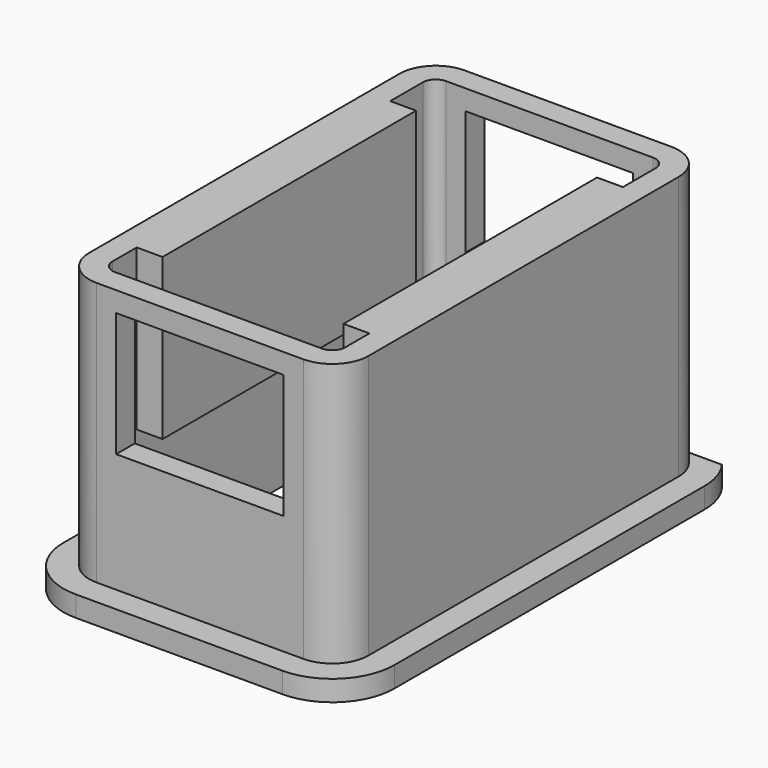
from build123d import *

# Parameters (mm, degrees)
F1_DEPTH  = 27.94
F2_W      = 16.4592
F2_H      = 12.2074130923
F3_DEPTH  = 57.9374
F5_DEPTH  = 2.032
F6_DEPTH  = 25.4
F7_W      = 31.1324808757
F7_H      = 15.748
F8_DEPTH  = 25.4
F9_W      = 17.78
F9_H      = 31.1324808757
F10_DEPTH = 42.926


with BuildPart() as f1:
    # F0 (on Top) → F1 (new body)
    with BuildSketch(Plane.XY):
        with BuildLine():
            Line((-2.2859999444, 39.37), (-2.2859999444, 1.27))
            ThreePointArc((-2.2859999444, 1.27), (-1.2444716746, -1.2444716746), (1.27, -2.2859999444))
            Line((1.27, -2.2859999444), (21.59, -2.2859999444))
            ThreePointArc((21.59, -2.2859999444), (24.1044716746, -1.2444716746), (25.1459999444, 1.27))
            Line((25.1459999444, 1.27), (25.1459999444, 39.37))
            ThreePointArc((25.1459999444, 39.37), (24.1044716746, 41.8844716746), (21.59, 42.9259999444))
            Line((21.59, 42.9259999444), (1.27, 42.9259999444))
            ThreePointArc((1.27, 42.9259999444), (-1.2444716746, 41.8844716746), (-2.2859999444, 39.37))
        make_face()
        with BuildLine():
            Line((21.59, 0), (1.27, 0))
            ThreePointArc((1.27, 0), (0.3719743879, 0.3719743879), (0, 1.27))
            Line((0, 1.27), (0, 39.37))
            ThreePointArc((0, 39.37), (0.3719743879, 40.2680256121), (1.27, 40.64))
            Line((1.27, 40.64), (21.59, 40.64))
            ThreePointArc((21.59, 40.64), (22.4880256121, 40.2680256121), (22.86, 39.37))
            Line((22.86, 39.37), (22.86, 1.27))
            ThreePointArc((22.86, 1.27), (22.4880256121, 0.3719743879), (21.59, 0))
        make_face(mode=Mode.SUBTRACT)
    extrude(amount=F1_DEPTH)

    # F2 (on face) → F3 (cut)
    with BuildSketch(Plane.XZ.offset(2.2859999444)):
        with Locations((11.43, 19.8580278084)):
            Rectangle(F2_W, F2_H)
    extrude(amount=-F3_DEPTH, mode=Mode.SUBTRACT)

    # F4 (on Top) → F5 (join)
    with BuildSketch(Plane.XY):
        with BuildLine():
            Line((1.0258011753, 42.9636910558), (-3.6540816908, 42.9636910558))
            ThreePointArc((-3.6540816908, 42.9636910558), (-4.5256185939, 41.2599738136), (-4.8259983516, 39.37))
            Line((-4.8259983516, 39.37), (-4.8259983516, 1.27))
            ThreePointArc((-4.8259983516, 1.27), (-3.0405217725, -3.0405217725), (1.27, -4.8259983516))
            Line((1.27, -4.8259983516), (21.59, -4.8259983516))
            ThreePointArc((21.59, -4.8259983516), (25.9005217725, -3.0405217725), (27.6859983516, 1.27))
            Line((27.6859983516, 1.27), (27.6859983516, 39.37))
            ThreePointArc((27.6859983516, 39.37), (27.3856185939, 41.2599738136), (26.5140816908, 42.9636910558))
            Line((26.5140816908, 42.9636910558), (1.0258011753, 42.9636910558))
        make_face()
    extrude(amount=F5_DEPTH)

    # F6 (cut): a face of the model
    f6_faces = [f1.faces().sort_by_distance(p)[0] for p in [
        (11.43, 20.32, 2.032),
    ]]
    extrude(f6_faces, amount=-F6_DEPTH, mode=Mode.SUBTRACT)

    # F7 (on face) → F8 (join)
    with BuildSketch(Plane(origin=(-2.2859999444, 0, 0), x_dir=(0, -1, 0), z_dir=(-1, 0, 0))):
        with Locations((-19.8064594535, 20.066)):
            Rectangle(F7_W, F7_H)
    extrude(amount=-F8_DEPTH)

    # F9 (on face) → F10 (cut)
    with BuildSketch(Plane.XY.offset(27.94)):
        with Locations((11.4274583516, 19.8064594535)):
            Rectangle(F9_W, F9_H)
    extrude(amount=-F10_DEPTH, mode=Mode.SUBTRACT)


solid = f1.part
